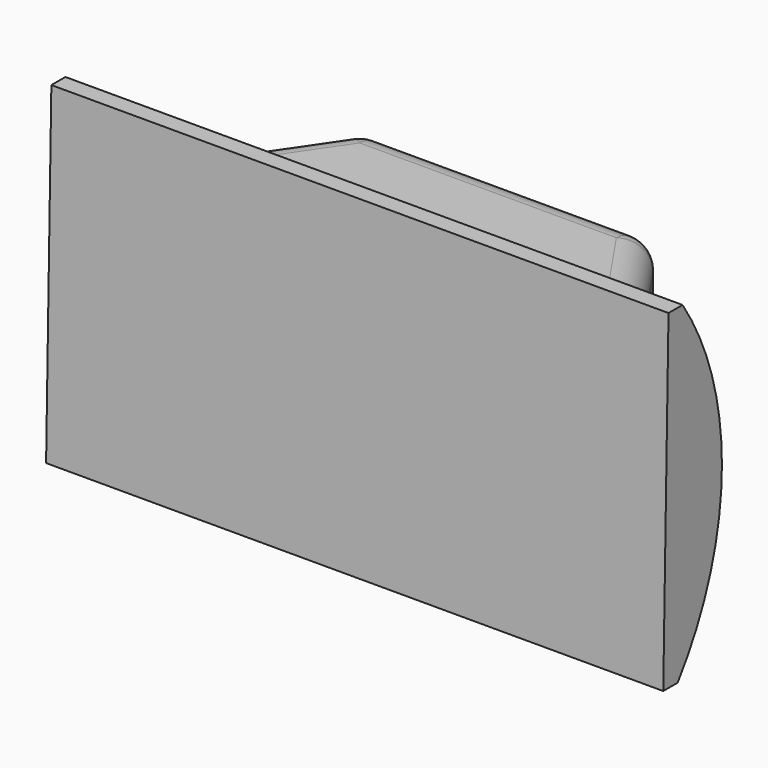
from build123d import *

# Parameters (mm, degrees)
F2_DEPTH      = 38.1
F4_DEPTH      = 12.7
F4_DEPTH_BACK = 96.52
F5_R          = 5.08
F7_R          = 5.08
F8_R          = 5.08


with BuildPart() as f2:
    # F1 (on Top) → F2 (new body)
    with BuildSketch(Plane.XY):
        Polygon((-25.4, 27.94), (-44.45, 0), (44.45, 0), (25.4, 27.94), align=None)
        Polygon((-37.240951, 3.81), (-23.386406, 24.13), (23.386406, 24.13), (37.240951, 3.81), align=None, mode=Mode.SUBTRACT)
        Polygon((23.386406, 24.13), (-23.386406, 24.13), (-37.240951, 3.81), (37.240951, 3.81), align=None)
    extrude(amount=F2_DEPTH)

    # F3 (on offset) → F4 (join, two sides)
    with BuildSketch(Plane.YZ.offset(41.91)) as f4_sk:
        with BuildLine():
            ThreePointArc((-3.437933, -10.16), (3.84106, 4.050015), (6.35, 19.817498))
            ThreePointArc((6.35, 19.817498), (4.124015, 34.690461), (-2.35886, 48.26))
            Line((-2.35886, 48.26), (-5.46216, 48.26))
            ThreePointArc((-5.46216, 48.26), (1.433443, 34.775346), (3.81, 19.817498))
            ThreePointArc((3.81, 19.817498), (1.125414, 3.945848), (-6.629672, -10.16))
            Line((-6.629672, -10.16), (-3.437933, -10.16))
        make_face()
        with BuildLine():
            ThreePointArc((3.81, 19.817498), (1.433443, 34.775346), (-5.46216, 48.26))
            Line((-5.46216, 48.26), (-6.629672, -10.16))
            ThreePointArc((-6.629672, -10.16), (1.125414, 3.945848), (3.81, 19.817498))
        make_face()
    extrude(amount=F4_DEPTH)
    extrude(f4_sk.sketch, amount=-F4_DEPTH_BACK)

    # F5
    f5_edges = [f2.edges().sort_by_distance(p)[0] for p in [
        (25.4, 27.94, 19.05),
        (-25.4, 27.94, 19.05),
    ]]
    fillet(f5_edges, radius=F5_R)

    # F7
    f7_edges = [f2.edges().sort_by_distance(p)[0] for p in [
        (34.888585, 14.023408, 0),
    ]]
    fillet(f7_edges, radius=F7_R)

    # F8
    f8_edges = [f2.edges().sort_by_distance(p)[0] for p in [
        (-34.67687, 14.333925, 38.1),
    ]]
    fillet(f8_edges, radius=F8_R)


solid = f2.part
